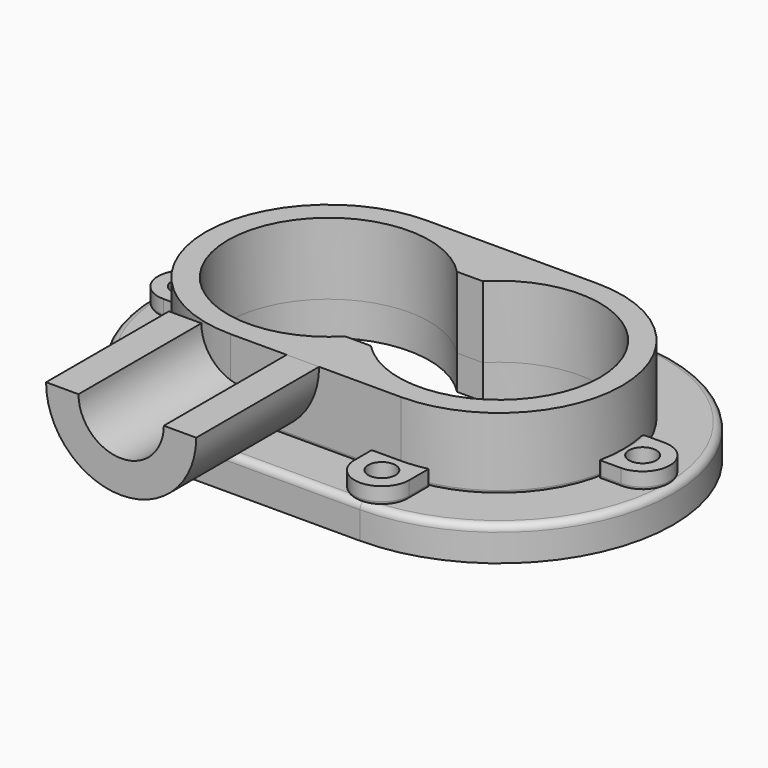
from build123d import *

# Parameters (mm, degrees)
F0_R     = 4
F1_DEPTH = 10
F3_DEPTH = 21
F4_R     = 4
F5_DEPTH = 5
F6_R     = 2
F6_2_R   = 2
F7_R     = 1
F9_DEPTH = 45
F11_R    = 1


with BuildPart() as f1:
    # F0 (on Top) → F1 (new body)
    with BuildSketch(Plane.XY):
        with BuildLine():
            Line((25, 51), (-25, 51))
            ThreePointArc((-25, 51), (-76, 0), (-25, -51))
            Line((-25, -51), (25, -51))
            ThreePointArc((25, -51), (76, 0), (25, 51))
        make_face()
        with Locations((-25, -43)):
            Circle(F0_R, mode=Mode.SUBTRACT)
        with Locations((25, -43)):
            Circle(F0_R, mode=Mode.SUBTRACT)
        with Locations((-67, 0)):
            Circle(F0_R, mode=Mode.SUBTRACT)
        with Locations((-25, 43)):
            Circle(F0_R, mode=Mode.SUBTRACT)
        with BuildLine():
            ThreePointArc((-3.7867965644, -20.5), (-54.5, 0), (-3.7867965644, 20.5))
            Line((-3.7867965644, 20.5), (3.7867965644, 20.5))
            ThreePointArc((3.7867965644, 20.5), (54.5, 0), (3.7867965644, -20.5))
            Line((3.7867965644, -20.5), (-3.7867965644, -20.5))
        make_face(mode=Mode.SUBTRACT)
        with Locations((67, 0)):
            Circle(F0_R, mode=Mode.SUBTRACT)
        with Locations((25, 43)):
            Circle(F0_R, mode=Mode.SUBTRACT)
    extrude(amount=F1_DEPTH)

    # F6#2
    f6_2_edges = [f1.edges().sort_by_distance(p)[0] for p in [
        (-76, 0, 10),
    ]]
    fillet(f6_2_edges, radius=F6_2_R)


with BuildPart() as f3:
    # F2 (on face) → F3 (new body)
    with BuildSketch(Plane.XY.offset(10)):
        with BuildLine():
            Line((-25, -36), (25, -36))
            ThreePointArc((25, -36), (61, 0), (25, 36))
            Line((25, 36), (-25, 36))
            ThreePointArc((-25, 36), (-61, 0), (-25, -36))
        make_face()
        with BuildLine():
            ThreePointArc((-3.7867965644, -20.5), (-54.5, 0), (-3.7867965644, 20.5))
            Line((-3.7867965644, 20.5), (3.7867965644, 20.5))
            ThreePointArc((3.7867965644, 20.5), (54.5, 0), (3.7867965644, -20.5))
            Line((3.7867965644, -20.5), (-3.7867965644, -20.5))
        make_face(mode=Mode.SUBTRACT)
    extrude(amount=F3_DEPTH)

    # F7
    f7_edges = [f3.edges().sort_by_distance(p)[0] for p in [
        (0, -36, 10),
    ]]
    fillet(f7_edges, radius=F7_R)


with BuildPart() as f5:
    # F4 (on face) → F5 (new body)
    with BuildSketch(Plane.XY.offset(10)):
        with BuildLine():
            ThreePointArc((60.0998575496, 8), (61, 0), (60.0998575496, -8))
            Line((60.0998575496, -8), (67, -8))
            ThreePointArc((67, -8), (75, 0), (67, 8))
            Line((67, 8), (60.0998575496, 8))
        make_face()
        with Locations((67, 0)):
            Circle(F4_R, mode=Mode.SUBTRACT)
        with BuildLine():
            Line((33, 35.0998575496), (33, 43))
            ThreePointArc((33, 43), (25, 51), (17, 43))
            Line((17, 43), (17, 36))
            Line((17, 36), (25, 36))
            ThreePointArc((25, 36), (29.0252408757, 35.7742566085), (33, 35.0998575496))
        make_face()
        with Locations((25, 43)):
            Circle(F4_R, mode=Mode.SUBTRACT)
        with BuildLine():
            ThreePointArc((17, -43), (25, -51), (33, -43))
            Line((33, -43), (33, -35.0998575496))
            ThreePointArc((33, -35.0998575496), (29.0252408757, -35.7742566085), (25, -36))
            Line((25, -36), (17, -36))
            Line((17, -36), (17, -43))
        make_face()
        with Locations((25, -43)):
            Circle(F4_R, mode=Mode.SUBTRACT)
        with BuildLine():
            Line((-25, 36), (-17, 36))
            Line((-17, 36), (-17, 43))
            ThreePointArc((-17, 43), (-25, 51), (-33, 43))
            Line((-33, 43), (-33, 35.0998575496))
            ThreePointArc((-33, 35.0998575496), (-29.0252408757, 35.7742566085), (-25, 36))
        make_face()
        with Locations((-25, 43)):
            Circle(F4_R, mode=Mode.SUBTRACT)
        with BuildLine():
            ThreePointArc((-60.0998575496, -8), (-61, 0), (-60.0998575496, 8))
            Line((-60.0998575496, 8), (-67, 8))
            ThreePointArc((-67, 8), (-75, 0), (-67, -8))
            Line((-67, -8), (-60.0998575496, -8))
        make_face()
        with Locations((-67, 0)):
            Circle(F4_R, mode=Mode.SUBTRACT)
        with BuildLine():
            ThreePointArc((-25, -36), (-29.0252408757, -35.7742566085), (-33, -35.0998575496))
            Line((-33, -35.0998575496), (-33, -43))
            ThreePointArc((-33, -43), (-25, -51), (-17, -43))
            Line((-17, -43), (-17, -36))
            Line((-17, -36), (-25, -36))
        make_face()
        with Locations((-25, -43)):
            Circle(F4_R, mode=Mode.SUBTRACT)
    extrude(amount=F5_DEPTH)

    # F6
    f6_edges = [f5.edges().sort_by_distance(p)[0] for p in [
        (-25, 51, 10),
    ]]
    fillet(f6_edges, radius=F6_R)

    # F11
    f11_edges = [f5.edges().sort_by_distance(p)[0] for p in [
        (25, -51, 10),
        (33, -35.099858, 12.5),
        (29.025241, -35.774257, 15),
        (17, -36, 12.5),
        (-33, -39.049929, 10),
        (-33, -35.099858, 12.5),
        (-75, 0, 10),
        (-61, 0, 15),
        (-60.099858, 8, 12.5),
        (-60.099858, -8, 12.5),
        (-21, 36, 15),
        (-17, 36, 13.5),
        (33, 39.049929, 10),
        (33, 35.099858, 12.5),
        (29.025241, 35.774257, 15),
        (17, 36, 12.5),
        (75, 0, 10),
        (61, 0, 15),
        (60.099858, -8, 12.5),
        (60.099858, 8, 12.5),
    ]]
    fillet(f11_edges, radius=F11_R)


with BuildPart() as f9:
    # F8 (on face) → F9 (new body)
    with BuildSketch(Plane.XZ.offset(36)):
        with BuildLine():
            ThreePointArc((-8.5, 31), (-21, 18.5), (-33.5, 31))
            Line((-33.5, 31), (-43, 31))
            ThreePointArc((-43, 31), (-21, 9), (1, 31))
            Line((1, 31), (-8.5, 31))
        make_face()
    extrude(amount=F9_DEPTH)


solid = Compound([f1.part, f3.part, f5.part, f9.part])
